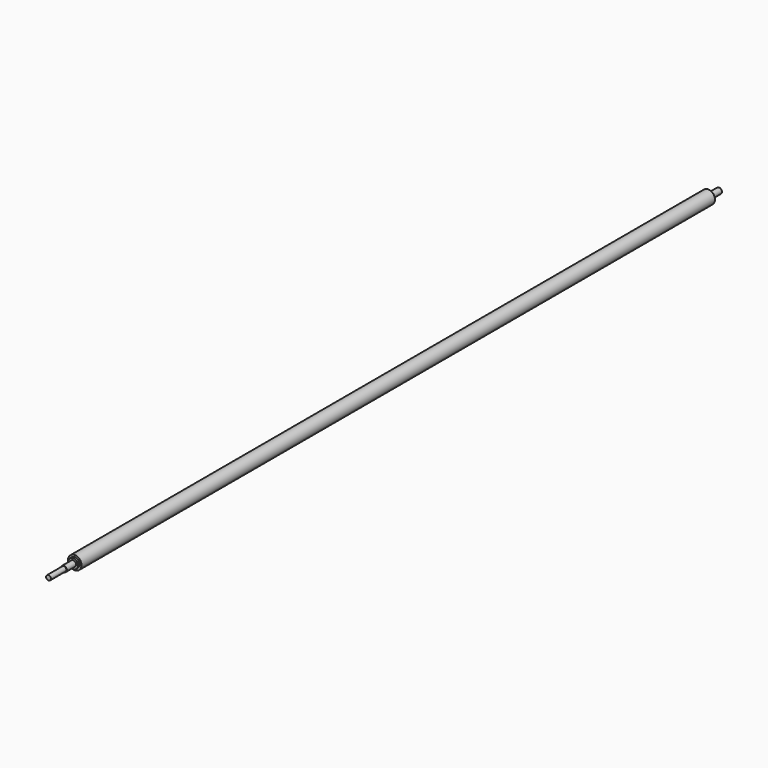
from build123d import *

# Parameters (mm, degrees)
F0_R      = 5
F1_DEPTH  = 412
F2_R      = 3
F3_DEPTH  = 12
F4_R      = 3
F5_DEPTH  = 12
F6_R      = 7
F6_R_2    = 5
F7_DEPTH  = 824
F8_R      = 2.5
F9_DEPTH  = 20
F10_DEPTH = 2
F11_DEPTH = 2


with BuildPart() as f1:
    # F0 (on Front) → F1 (new body, symmetric)
    with BuildSketch(Plane.XZ):
        Circle(F0_R)
    extrude(amount=F1_DEPTH, both=True)

    # F2 (on face) → F3 (join)
    with BuildSketch(Plane.XZ.offset(412)):
        Circle(F2_R)
    extrude(amount=F3_DEPTH)

    # F4 (on face) → F5 (join)
    with BuildSketch(Plane(origin=(0, 412, 0), x_dir=(-1, 0, 0), z_dir=(0, 1, 0))):
        Circle(F4_R)
    extrude(amount=F5_DEPTH)

    # F8 (on face) → F9 (join)
    with BuildSketch(Plane.XZ.offset(424)):
        Circle(F8_R)
    extrude(amount=F9_DEPTH)


with BuildPart() as f7:
    # F6 (on face) → F7 (new body, through all)
    with BuildSketch(Plane(origin=(0, 412, 0), x_dir=(-1, 0, 0), z_dir=(0, 1, 0))):
        Circle(F6_R)
        Circle(F6_R_2, mode=Mode.SUBTRACT)
    extrude(amount=-F7_DEPTH)

    # F10 (cut): a face of the model
    f10_faces = [f7.faces().sort_by_distance(p)[0] for p in [
        (6.8020101013, 412, 0),
    ]]
    extrude(f10_faces, amount=-F10_DEPTH, mode=Mode.SUBTRACT)

    # F11 (cut): a face of the model
    f11_faces = [f7.faces().sort_by_distance(p)[0] for p in [
        (6.8020101013, -412, 0),
    ]]
    extrude(f11_faces, amount=-F11_DEPTH, mode=Mode.SUBTRACT)


solid = Compound([f1.part, f7.part])
